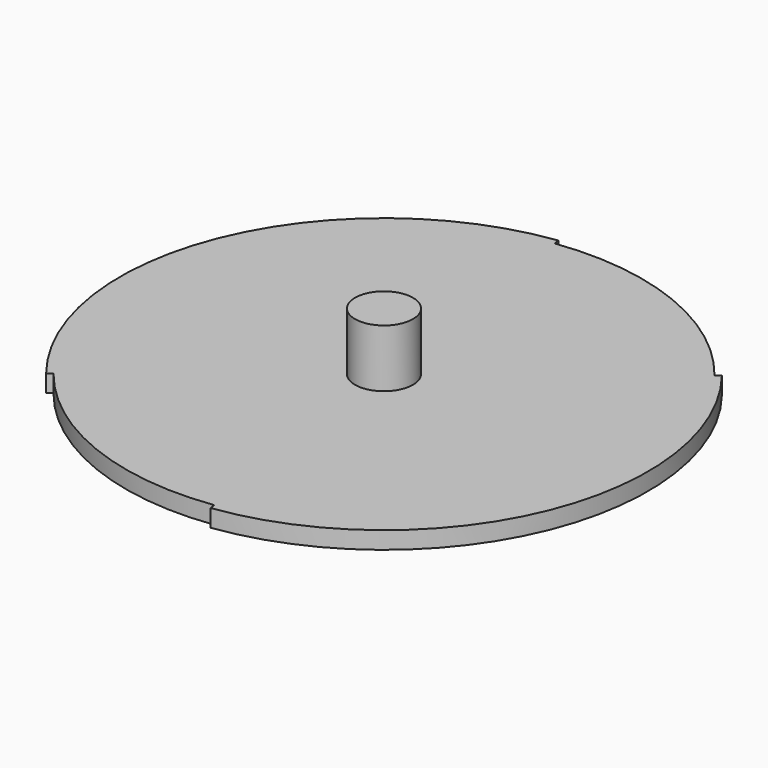
from build123d import *

# Parameters (mm, degrees)
PAD_DEPTH    = 1.5
SKETCH001_R  = 2.5
PAD001_DEPTH = 5


with BuildPart() as part:
    # Sketch → Pad (new body)
    with BuildSketch(Plane.XY):
        with BuildLine():
            Line((17.929835, 14.08407), (17.536637, 13.775209))
            ThreePointArc((17.536637, 13.775209), (8.400618, 20.657193), (-2.94546, 22.104621))
            Line((-3.011501, 22.60024), (-2.94546, 22.104621))
            ThreePointArc((-3.011501, 22.60024), (-21.140537, 8.539186), (-17.863266, -14.168406))
            Line((-17.863266, -14.168406), (-17.471528, -13.857695))
            ThreePointArc((-17.471528, -13.857695), (-8.319433, -20.690023), (3.014889, -22.095258))
            Line((3.014889, -22.095258), (3.082487, -22.590668))
            ThreePointArc((3.082487, -22.590668), (21.133824, -8.555787), (17.929835, 14.08407))
        make_face()
    extrude(amount=PAD_DEPTH)

    # Sketch001 (on Face10 of Pad) → Pad001 (join)
    with BuildSketch(Plane.XY.offset(1.5)):
        Circle(SKETCH001_R)
    extrude(amount=PAD001_DEPTH)


solid = part.part
